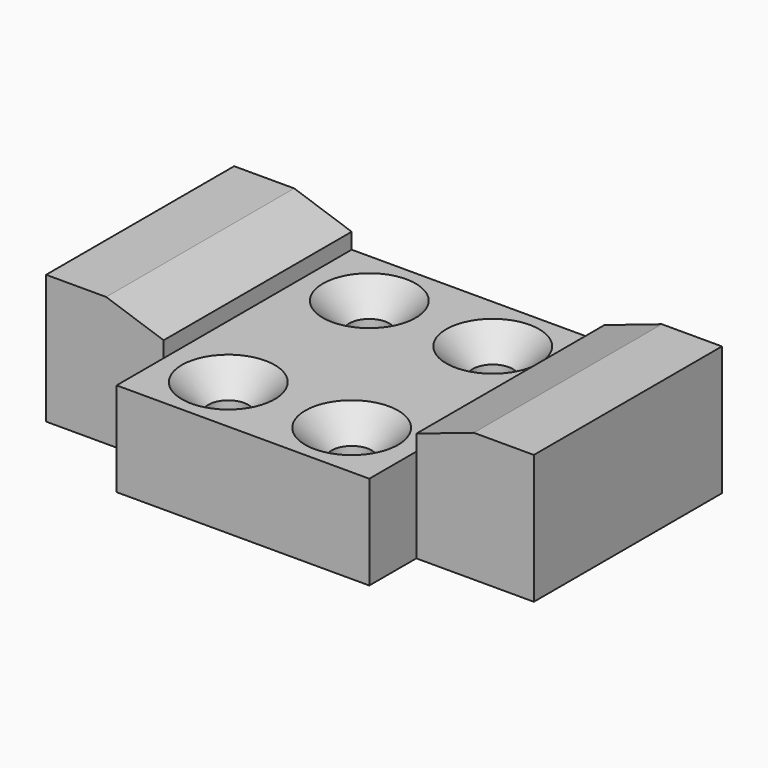
from build123d import *

# Parameters (mm, degrees)
F1_DEPTH       = 508
F2_W           = 546.1
F2_H           = 203.2
F3_DEPTH       = 635
F6_DEPTH       = 508
F8_D           = 86.36
F8_CSINK_D     = 200.66
F8_CSINK_ANGLE = 90


with BuildPart() as f1:
    # F0 (on Front) → F1 (new body)
    with BuildSketch(Plane.XZ):
        Polygon((0, 279.4), (0, 0), (254, 0), (254, 237.349615), (129.794, 279.4), align=None)
    extrude(amount=F1_DEPTH)

    # F2 (on Front) → F3 (join)
    with BuildSketch(Plane.XZ):
        with Locations((527.05, 101.6)):
            Rectangle(F2_W, F2_H)
    extrude(amount=F3_DEPTH)

    # F5 (on face) → F6 (join)
    with BuildSketch(Plane(origin=(0, 0, 0), x_dir=(-1, 0, 0), z_dir=(0, 1, 0))):
        Polygon((0, 279.4), (-129.794, 279.4), (-254, 237.349615), (-254, 203.2), (-254, 0), (0, 0), align=None)
        Polygon((-1054.1, 279.4), (-1054.1, 0), (-800.1, 0), (-800.1, 203.2), (-800.1, 237.349615), (-924.306, 279.4), align=None)
    extrude(amount=-F6_DEPTH)

    # F8 (through all)
    with Locations(Plane.XY.offset(203.2)):
        with Locations((660.4, -508), (393.7, -508), (393.7, -127), (660.4, -127)):
            CounterSinkHole(F8_D / 2, F8_CSINK_D / 2, counter_sink_angle=F8_CSINK_ANGLE)


solid = f1.part
